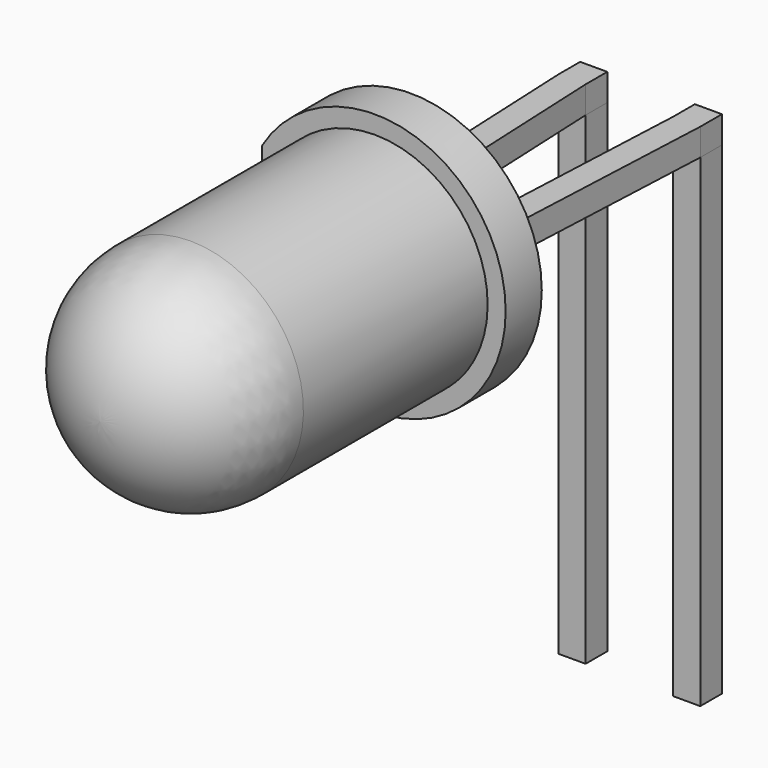
from build123d import *

# Parameters (mm, degrees)
SKETCH_W       = 0.6
SKETCH_H       = 0.6
PAD_DEPTH      = 8.7
PAD_DEPTH_BACK = 2
PAD001_DEPTH   = 0.6
SKETCH002_W    = 2.54
SKETCH002_H    = 0.6
PAD002_DEPTH   = 1
SKETCH004_R    = 2.9
SKETCH004_R_2  = 2.5
PAD003_DEPTH   = 1
SKETCH006_W    = 0.4
SKETCH006_H    = 5.8
POCKET_DEPTH   = 1.001


with BuildPart() as pad:
    # Sketch → Pad (new body, two sides)
    with BuildSketch(Plane.XY) as pad_sk:
        Rectangle(SKETCH_W, SKETCH_H)
        with Locations((2.54, 0)):
            Rectangle(SKETCH_W, SKETCH_H)
    extrude(amount=PAD_DEPTH)
    extrude(pad_sk.sketch, amount=-PAD_DEPTH_BACK)


with BuildPart() as pad001:
    # Sketch001 → Pad001 (new body)
    with BuildSketch(Plane.XY.offset(8.7)):
        Polygon((0.3, 0.3), (-0.3, 0.3), (-0.3, -0.3), (0, -6.85), (0.6, -6.85), (0.3, -0.3), align=None)
        Polygon((2.84, 0.3), (2.24, 0.3), (2.24, -0.3), (1.94, -6.85), (2.54, -6.85), (2.84, -0.3), align=None)
    extrude(amount=PAD001_DEPTH)


with BuildPart() as pad002:
    # Sketch002 → Pad002 (new body)
    with BuildSketch(Plane.XZ.offset(6.85)):
        with Locations((1.27, 9)):
            Rectangle(SKETCH002_W, SKETCH002_H)
    extrude(amount=PAD002_DEPTH)


with BuildPart() as revolution:
    # Sketch003 → Revolution (revolve)
    with BuildSketch(Plane.YZ.offset(1.27)):
        with BuildLine():
            Line((-6.35, 9), (-14.95, 9))
            ThreePointArc((-12.45, 11.5), (-14.217767, 10.767767), (-14.95, 9))
            Line((-6.35, 11.5), (-12.45, 11.5))
            Line((-6.35, 9), (-6.35, 11.5))
        make_face()
    revolve(axis=Axis((1.27, -5.810397, 9), (0, -1, 0)))


with BuildPart() as revolution001:
    # Sketch005 → Revolution001 (revolve)
    with BuildSketch(Plane.YZ.offset(1.27)):
        Polygon((-7.55, 9), (-8.05, 9), (-8.05, 9.5), align=None)
    revolve(axis=Axis((1.27, -3.977201, 9), (0, -1, 0)))


with BuildPart() as pocket:
    # Sketch004 → Pad003 (new body)
    with BuildSketch(Plane.XZ.offset(6.35)):
        with Locations((1.27, 9)):
            Circle(SKETCH004_R)
        with Locations((1.27, 9)):
            Circle(SKETCH004_R_2, mode=Mode.SUBTRACT)
    extrude(amount=PAD003_DEPTH)

    # Sketch006 → Pocket (cut, through all)
    with BuildSketch(Plane.XZ.offset(7.35)):
        with Locations((-1.43, 9)):
            Rectangle(SKETCH006_W, SKETCH006_H)
    extrude(amount=-POCKET_DEPTH, mode=Mode.SUBTRACT)


solid = Compound([pad.part, pad001.part, pad002.part, revolution.part, revolution001.part, pocket.part])
